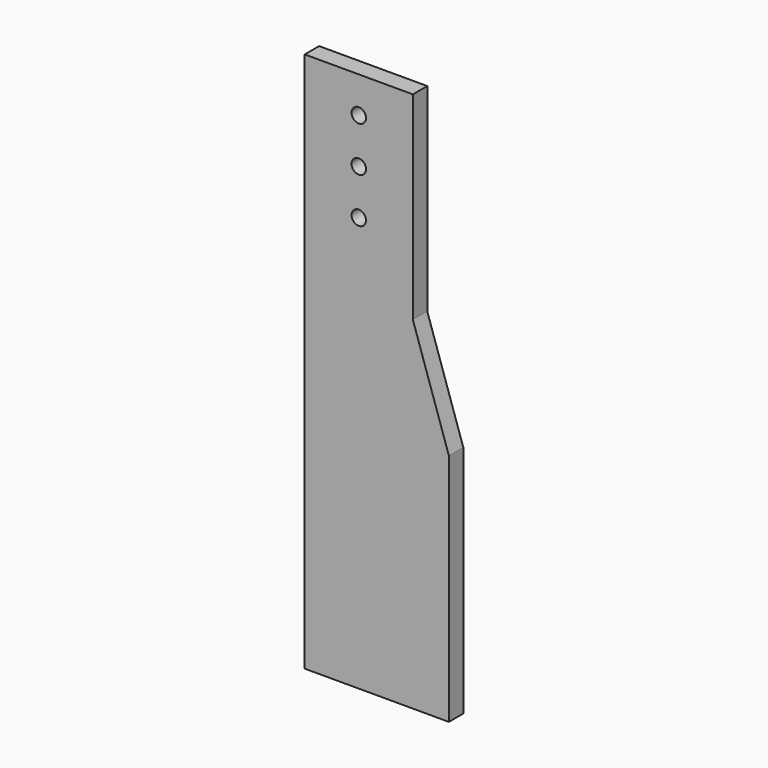
from build123d import *

# Parameters (mm, degrees)
F0_R     = 4
F1_DEPTH = 10


with BuildPart() as f1:
    # F0 (on Front) → F1 (new body)
    with BuildSketch(Plane.XZ):
        Polygon((0, 300), (0, 0), (80, 0), (80, 130), (60, 190), (60, 300), align=None)
        with Locations((30, 230)):
            Circle(F0_R, mode=Mode.SUBTRACT)
        with Locations((30, 255)):
            Circle(F0_R, mode=Mode.SUBTRACT)
        with Locations((30, 280)):
            Circle(F0_R, mode=Mode.SUBTRACT)
    extrude(amount=-F1_DEPTH)


solid = f1.part
